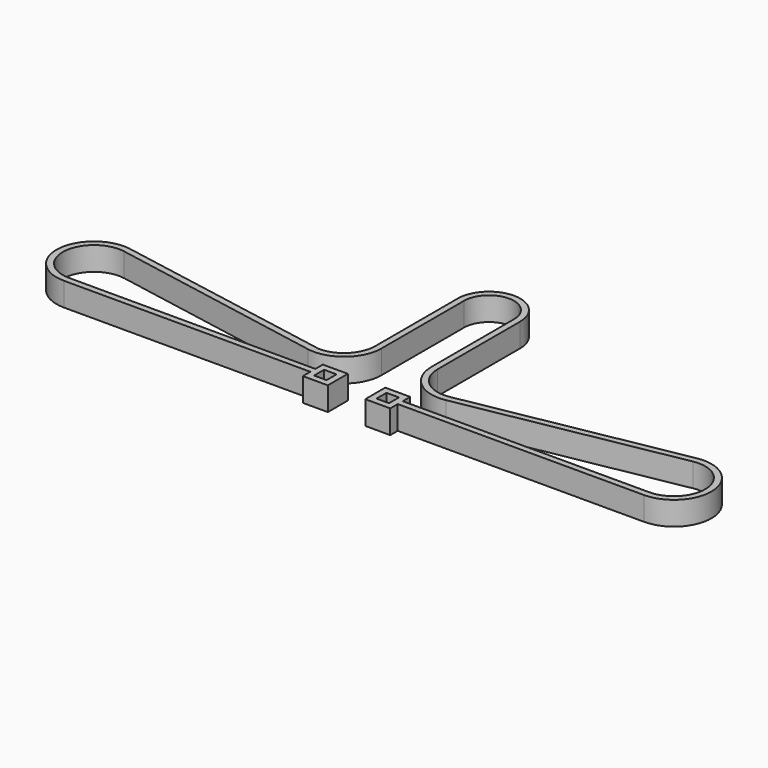
from build123d import *

# Parameters (mm, degrees)
F0_W     = 3.175
F0_H     = 3.175
F1_DEPTH = 6


with BuildPart() as f1:
    # F0 (on Top) → F1 (new body)
    with BuildSketch(Plane.XY):
        with BuildLine():
            Line((-6.35, -26.23185), (-6.35, 0))
            ThreePointArc((-6.35, 0), (0, 6.35), (6.35, 0))
            Line((6.35, 0), (6.35, -26.23185))
            ThreePointArc((6.35, -26.23185), (9.777239, -33.549154), (17.59261, -35.600705))
            Line((17.59261, -35.600705), (72.315666, -25.568221))
            ThreePointArc((72.315666, -25.568221), (81.651911, -32.656978), (73.747008, -41.3131))
            Line((73.747008, -41.3131), (11.1125, -41.3131))
            Line((11.1125, -41.3131), (11.1125, -42.9006))
            Line((11.1125, -42.9006), (73.747008, -42.9006))
            ThreePointArc((73.747008, -42.9006), (83.232933, -32.513714), (72.030307, -24.006578))
            Line((72.030307, -24.006578), (17.59261, -33.981284))
            ThreePointArc((17.59261, -33.981284), (10.906581, -32.422062), (7.9375, -26.23185))
            Line((7.9375, -26.23185), (7.9375, 0))
            ThreePointArc((7.9375, 0), (0, 7.9375), (-7.9375, 0))
            Line((-7.9375, 0), (-7.9375, -26.23185))
            ThreePointArc((-7.9375, -26.23185), (-10.26234, -31.84451), (-15.875, -34.16935))
            Line((-15.875, -34.16935), (-72.05076, -24.002854))
            ThreePointArc((-72.05076, -24.002854), (-83.233868, -32.524067), (-73.747008, -42.9006))
            Line((-73.747008, -42.9006), (-11.1125, -42.9006))
            Line((-11.1125, -42.9006), (-11.1125, -41.3131))
            Line((-11.1125, -41.3131), (-73.747008, -41.3131))
            ThreePointArc((-73.747008, -41.3131), (-81.651911, -32.656978), (-72.315666, -25.568221))
            Line((-72.315666, -25.568221), (-17.59261, -35.600705))
            ThreePointArc((-17.59261, -35.600705), (-9.777239, -33.549154), (-6.35, -26.23185))
        make_face()
        Polygon((-11.1125, -38.93185), (-11.1125, -41.3131), (-11.1125, -42.9006), (-11.1125, -45.28185), (-4.7625, -45.28185), (-4.7625, -38.93185), align=None)
        with Locations((-7.9375, -42.10685)):
            Rectangle(F0_W, F0_H, mode=Mode.SUBTRACT)
        Polygon((11.1125, -42.9006), (11.1125, -41.3131), (11.1125, -38.93185), (4.7625, -38.93185), (4.7625, -45.28185), (11.1125, -45.28185), align=None)
        with Locations((7.9375, -42.10685)):
            Rectangle(F0_W, F0_H, mode=Mode.SUBTRACT)
    extrude(amount=F1_DEPTH)


solid = f1.part
